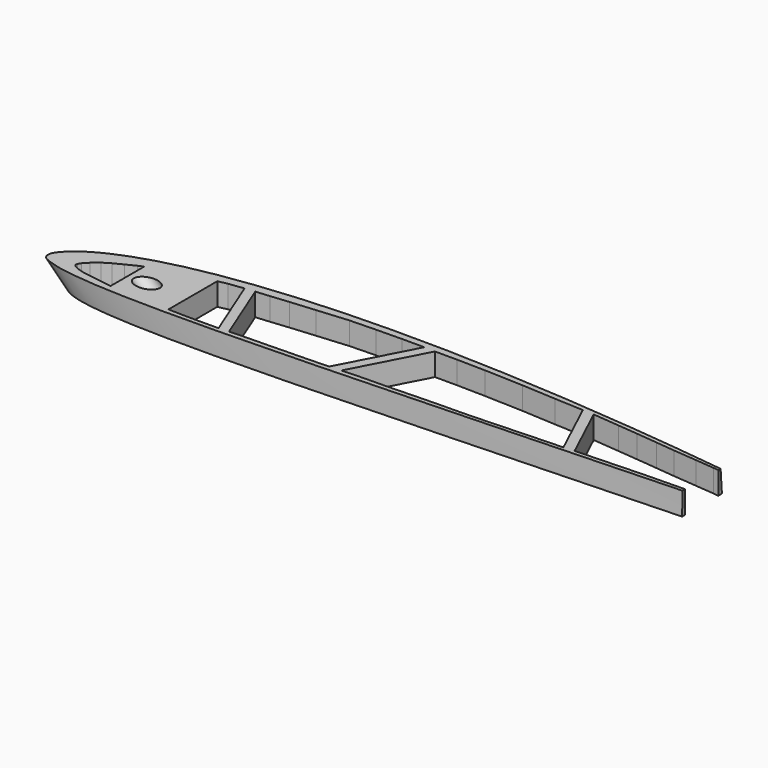
from build123d import *

# Parameters (mm, degrees)
SKETCH005_R     = 4.1
POCKET001_DEPTH = 1000
SKETCH022_W     = 945.272247
SKETCH022_H     = 187.602043
POCKET008_DEPTH = 100
SKETCH023_W     = 1032.115818
SKETCH023_H     = 242.591309
POCKET009_DEPTH = 490
POCKET037_DEPTH = 15
SKETCH069_W     = 134.705139
SKETCH069_H     = 33.848118
POCKET043_DEPTH = 15


with BuildPart() as part:
    # Sketch004 → AdditiveLoft001 section 0
    with BuildSketch(Plane.XY):
        with BuildLine():
            add(Edge.make_bspline(
                [(442, 0), (441.516482, 0.05985), (439.608661, 0.304392), (435.397729, 0.910974), (428.574856, 2.050787), (419.357172, 3.70148), (407.988015, 5.842425), (394.698211, 8.361511), (379.693029, 11.119858), (363.162801, 13.997331), (345.26298, 16.850624), (326.154422, 19.592319), (306.024603, 22.224467), (285.087437, 24.693135), (263.574681, 26.954707), (241.720258, 28.956147), (219.751231, 30.630726), (197.897907, 31.93252), (176.376671, 32.821617), (155.396014, 33.244603), (135.15065, 33.188213), (115.824376, 32.629564), (97.587476, 31.56887), (80.596225, 30.005784), (64.993081, 27.968424), (50.899514, 25.480303), (38.413049, 22.576942), (27.612464, 19.308312), (18.537399, 15.757674), (11.25959, 12.025676), (5.681209, 8.285847), (2.085717, 4.609671), (-0.247471, 1.339778), (0.311945, -2.351632), (4.312806, -4.086549), (9.630029, -5.736613), (17.536136, -6.998137), (27.548729, -7.995899), (39.778624, -8.638792), (54.057759, -8.977652), (70.277468, -9.020418), (88.270446, -8.806011), (107.851364, -8.369968), (128.803322, -7.757266), (150.891088, -7.009708), (173.8572, -6.171241), (197.434439, -5.258382), (221.347851, -4.314599), (245.320032, -3.359505), (269.074332, -2.428661), (292.331841, -1.542801), (314.820615, -0.740997), (336.263952, -0.054134), (356.390635, 0.471415), (374.915352, 0.819632), (391.616087, 0.995955), (406.124271, 0.998543), (418.5896, 0.838399), (427.79948, 0.669458), (436.147044, 0.281922), (438.208582, 0.287723), (442.482043, -0.059667), (442, 0)],
                knots=[0, 0, 0, 0, 1.461597, 5.77029, 12.762078, 22.212664, 33.86298, 47.468775, 62.792045, 79.632371, 97.804006, 117.167199, 137.543181, 158.706049, 180.412086, 202.435333, 224.541436, 246.507528, 268.108303, 289.156025, 309.457208, 328.838587, 347.151752, 364.251375, 380.016791, 394.345039, 407.169539, 418.451022, 428.175556, 436.348274, 442.987025, 448.138084, 451.892769, 454.490135, 458.080843, 463.78995, 471.700688, 481.805752, 494.068802, 508.3943, 524.664455, 542.72125, 562.377151, 583.420645, 605.603797, 628.678224, 652.364831, 676.388479, 700.474308, 724.338439, 747.706026, 770.297556, 791.846969, 812.070775, 830.691007, 847.452489, 862.104791, 874.428615, 884.234973, 891.369529, 895.711178, 897.168317, 897.168317, 897.168317, 897.168317], degree=3))
        make_face()
    # Sketch003 → AdditiveLoft001 section 1
    with BuildSketch(Plane(origin=(600, 0, -600), x_dir=(1, 0, 0), z_dir=(0, 0, 1))):
        with BuildLine():
            add(Edge.make_bspline(
                [(221, 0), (220.758241, 0.029925), (219.804331, 0.152196), (217.698864, 0.455487), (214.287428, 1.025393), (209.678586, 1.85074), (203.994008, 2.921212), (197.349106, 4.180756), (189.846514, 5.559929), (181.5814, 6.998665), (172.63149, 8.425312), (163.077211, 9.796159), (153.012301, 11.112233), (142.543719, 12.346568), (131.78734, 13.477353), (120.860129, 14.478073), (109.875616, 15.315363), (98.948954, 15.96626), (88.188336, 16.410808), (77.698007, 16.622301), (67.575325, 16.594107), (57.912188, 16.314782), (48.793738, 15.784435), (40.298113, 15.002892), (32.49654, 13.984212), (25.449757, 12.740151), (19.206525, 11.288471), (13.806232, 9.654156), (9.2687, 7.878837), (5.629795, 6.012838), (2.840604, 4.142924), (1.042858, 2.304836), (-0.123736, 0.669889), (0.155972, -1.175816), (2.156403, -2.043274), (4.815015, -2.868307), (8.768068, -3.499068), (13.774365, -3.997949), (19.889312, -4.319396), (27.028879, -4.488826), (35.138734, -4.510209), (44.135223, -4.403006), (53.925682, -4.184984), (64.401661, -3.878633), (75.445544, -3.504854), (86.9286, -3.08562), (98.71722, -2.629191), (110.673925, -2.157299), (122.660016, -1.679753), (134.537166, -1.21433), (146.165921, -0.771401), (157.410308, -0.370498), (168.131976, -0.027067), (178.195317, 0.235708), (187.457676, 0.409816), (195.808043, 0.497978), (203.062136, 0.499271), (209.2948, 0.4192), (213.89974, 0.334729), (218.073522, 0.140961), (219.104291, 0.143861), (221.241022, -0.029834), (221, 0)],
                knots=[0, 0, 0, 0, 0.730799, 2.885145, 6.381039, 11.106332, 16.93149, 23.734387, 31.396023, 39.816186, 48.902003, 58.583599, 68.77159, 79.353025, 90.206043, 101.217667, 112.270718, 123.253764, 134.054152, 144.578012, 154.728604, 164.419294, 173.575876, 182.125688, 190.008395, 197.172519, 203.58477, 209.225511, 214.087778, 218.174137, 221.493513, 224.069042, 225.946384, 227.245067, 229.040421, 231.894975, 235.850344, 240.902876, 247.034401, 254.19715, 262.332227, 271.360625, 281.188575, 291.710323, 302.801898, 314.339112, 326.182416, 338.19424, 350.237154, 362.16922, 373.853013, 385.148778, 395.923484, 406.035388, 415.345504, 423.726244, 431.052396, 437.214307, 442.117487, 445.684765, 447.855589, 448.584159, 448.584159, 448.584159, 448.584159], degree=3))
        make_face()
    loft()

    # Sketch005 (on DatumPlane) → Pocket001 (cut)
    with BuildSketch(Plane(origin=(0, 0, 0), x_dir=(0.707107, 0, 0.707107), z_dir=(-0.707107, 0, 0.707107))):
        with Locations((28.334262, 4.752984)):
            Circle(SKETCH005_R)
    extrude(amount=-POCKET001_DEPTH, mode=Mode.SUBTRACT)

    # Sketch022 (on Face1 of Pocket001) → Pocket008 (cut)
    with BuildSketch(Plane.XY):
        with Locations((398.32396, 24.800571)):
            Rectangle(SKETCH022_W, SKETCH022_H)
    extrude(amount=-POCKET008_DEPTH, mode=Mode.SUBTRACT)

    # Sketch023 (on Face3 of Pocket008) → Pocket009 (cut)
    with BuildSketch(Plane(origin=(0, 0, -600), x_dir=(1, 0, 0), z_dir=(0, 0, -1))):
        with Locations((543.011183, 43.390365)):
            Rectangle(SKETCH023_W, SKETCH023_H)
    extrude(amount=-POCKET009_DEPTH, mode=Mode.SUBTRACT)

    # Sketch062 (on Face2 of Pocket009) → Pocket037 (cut)
    with BuildSketch(Plane(origin=(0, 0, -110), x_dir=(1, 0, 0), z_dir=(0, 0, -1))):
        Polygon((131.615433, -13.856302), (131.615433, 4.749034), (126.762009, 4.050773), (121.39846, 3.23596), (117.608994, 2.65394), (114.460693, 1.605384), (112.828148, 0.731336), (112.128372, 0), (112.303047, -0.95915), (113.118874, -2.300192), (115.158745, -4.399402), (118.07299, -6.848619), (121.395416, -8.889856), (125.242546, -10.814631), (129.381119, -12.914368), align=None)
        Polygon((456.728149, -6.978049), (456.728149, -2.773762), (444.472656, -2.773762), (430.721405, -2.532512), (419.575684, -2.291264), (405.247559, -1.998539), (391.49759, -1.51681), (401.723175, -15.753007), (417.216003, -13.540045), (432.076996, -10.934546), (447.999481, -8.473799), align=None)
        Polygon((397.241701, -16.814685), (385.617041, -0.630676), (375.298279, -0.398599), (363.461273, -0.159949), (353.628937, 0.221889), (343.414764, 0.603728), (334.198277, 0.953662), (322.256893, -24.521139), (334.103271, -23.43784), (343.031006, -22.609682), (352.429993, -21.684027), (360.745117, -20.814463), (371.413544, -19.881708), (379.750031, -19.123842), (388.727814, -18.016197), align=None)
        Polygon((329.504028, 1.303837), (317.297952, -24.735634), (304.505768, -25.330662), (289.375427, -26.189796), (272.288177, -26.81028), (259.745087, -27.037893), (249.901355, -27.04927), (233.501347, 4.365564), (243.094421, 3.929071), (253.594986, 3.785881), (265.05014, 3.40404), (275.168854, 3.11766), (286.396149, 2.973117), (297.230804, 2.591277), (306.25174, 2.20944), (313.144257, 1.922893), (322.015137, 1.575014), align=None)
        Polygon((245.031035, -27.221813), (228.388046, 4.65846), (221.996856, 4.848562), (215.787369, 5.040299), (208.529495, 5.183408), (201.134323, 5.37441), (192.294861, 5.539433), (184.953846, 5.81717), (173.308864, -23.249129), (179.370483, -23.760967), (187.341354, -24.572374), (198.319214, -25.526972), (212.219315, -26.720217), (223.865387, -27.054329), (235.231171, -27.233147), align=None)
        Polygon((168.937958, -22.801165), (180.507291, 6.076313), (170.252457, 6.172935), (162.949799, 6.077476), (158.204163, 5.939759), (158.204163, -21.110197), (162.284973, -21.926363), align=None)
    extrude(amount=-POCKET037_DEPTH, mode=Mode.SUBTRACT)

    # Sketch069 (on Face2 of Pocket037) → Pocket043 (cut)
    with BuildSketch(Plane(origin=(0, 0, -110), x_dir=(1, 0, 0), z_dir=(0, 0, -1))):
        with Locations((449.35257, -7.399801)):
            Rectangle(SKETCH069_W, SKETCH069_H)
    extrude(amount=-POCKET043_DEPTH, mode=Mode.SUBTRACT)


solid = part.part
